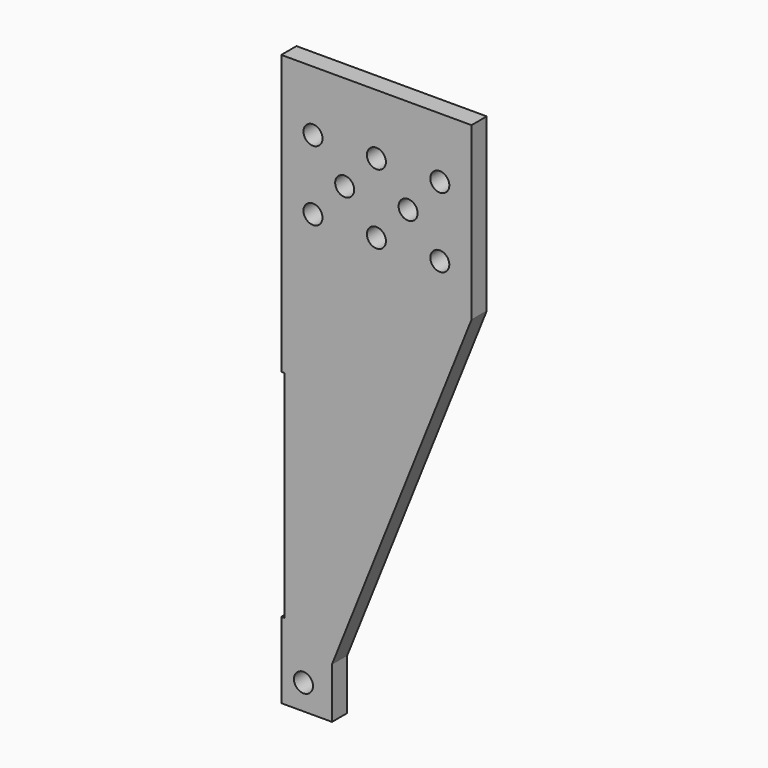
from build123d import *

# Parameters (mm, degrees)
F1_DEPTH = 3
F3_D     = 3


with BuildPart() as f1:
    # F0 (on Front) → F1 (new body)
    with BuildSketch(Plane.XZ):
        Polygon((0, 12), (0, 0), (8, 0), (8, 8), (30, 63), (30, 90), (0, 90), (0, 46), (0.5, 46), (0.5, 12), align=None)
    extrude(amount=F1_DEPTH)

    # F3 (through all)
    with Locations(Plane(origin=(0, 0, 0), x_dir=(1, 0, 0), z_dir=(0, 1, 0))):
        with Locations((5, -80.5), (15, -80.5), (25, -80.5), (20, -75), (10, -75), (5, -69.5), (25, -69.5), (15, -69.5), (3.5, -4)):
            Hole(F3_D / 2)


solid = f1.part
